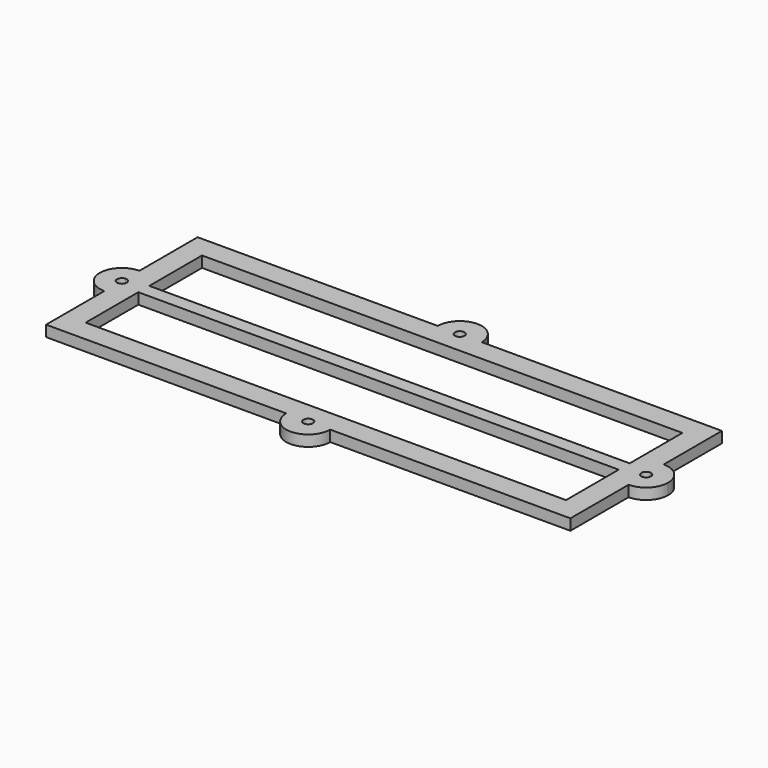
from build123d import *

# Parameters (mm, degrees)
F1_DEPTH = 4


with BuildPart() as f1:
    # F0 (on Top) → F1 (new body)
    with BuildSketch(Plane.XY):
        with BuildLine():
            Line((-30.794654727, 19.8597841859), (-30.794654727, 43.8597841859))
            Line((-30.794654727, 43.8597841859), (56.705345273, 43.8597841859))
            ThreePointArc((56.705345273, 43.8597841859), (51.0484910235, 46.2029299364), (48.705345273, 51.8597841859))
            Line((48.705345273, 51.8597841859), (-38.794654727, 51.8597841859))
            Line((-38.794654727, 51.8597841859), (-38.794654727, 25.3597841859))
            ThreePointArc((-38.794654727, 25.3597841859), (-33.1378004775, 23.0166384354), (-30.794654727, 17.3597841859))
            Line((-30.794654727, 17.3597841859), (-30.794654727, 19.8597841859))
        make_face()
        with BuildLine():
            ThreePointArc((64.705345273, 51.8597841859), (62.3621995225, 46.2029299364), (56.705345273, 43.8597841859))
            Line((56.705345273, 43.8597841859), (144.205345273, 43.8597841859))
            Line((144.205345273, 43.8597841859), (144.205345273, 19.8597841859))
            Line((144.205345273, 19.8597841859), (144.205345273, 17.3597841859))
            ThreePointArc((144.205345273, 17.3597841859), (146.5484910235, 23.0166384354), (152.205345273, 25.3597841859))
            Line((152.205345273, 25.3597841859), (152.205345273, 51.8597841859))
            Line((152.205345273, 51.8597841859), (64.705345273, 51.8597841859))
        make_face()
        with BuildLine():
            ThreePointArc((48.705345273, 51.8597841859), (51.0484910235, 46.2029299364), (56.705345273, 43.8597841859))
            ThreePointArc((56.705345273, 43.8597841859), (62.3621995225, 46.2029299364), (64.705345273, 51.8597841859))
            Line((64.705345273, 51.8597841859), (58.455345273, 51.8597841859))
            ThreePointArc((58.455345273, 51.8597841859), (56.705345273, 50.1097841859), (54.955345273, 51.8597841859))
            Line((54.955345273, 51.8597841859), (48.705345273, 51.8597841859))
        make_face()
        with BuildLine():
            ThreePointArc((64.705345273, 51.8597841859), (56.705345273, 59.8597841859), (48.705345273, 51.8597841859))
            Line((48.705345273, 51.8597841859), (54.955345273, 51.8597841859))
            ThreePointArc((54.955345273, 51.8597841859), (56.705345273, 53.6097841859), (58.455345273, 51.8597841859))
            Line((58.455345273, 51.8597841859), (64.705345273, 51.8597841859))
        make_face()
        with BuildLine():
            ThreePointArc((-38.794654727, 9.3597841859), (-33.1378004775, 11.7029299364), (-30.794654727, 17.3597841859))
            ThreePointArc((-30.794654727, 17.3597841859), (-33.1378004775, 23.0166384354), (-38.794654727, 25.3597841859))
            Line((-38.794654727, 25.3597841859), (-38.794654727, 19.1097841859))
            ThreePointArc((-38.794654727, 19.1097841859), (-37.5572178599, 18.597221053), (-37.044654727, 17.3597841859))
            ThreePointArc((-37.044654727, 17.3597841859), (-37.5572178599, 16.1223473188), (-38.794654727, 15.6097841859))
            Line((-38.794654727, 15.6097841859), (-38.794654727, 9.3597841859))
        make_face()
        with BuildLine():
            Line((-30.794654727, 14.8597841859), (-30.794654727, 17.3597841859))
            ThreePointArc((-30.794654727, 17.3597841859), (-33.1378004775, 11.7029299364), (-38.794654727, 9.3597841859))
            Line((-38.794654727, 9.3597841859), (-38.794654727, -17.1402158141))
            Line((-38.794654727, -17.1402158141), (48.705345273, -17.1402158141))
            ThreePointArc((48.705345273, -17.1402158141), (51.0484910372, -11.483361551), (56.7053453116, -9.1402158141))
            Line((56.7053453116, -9.1402158141), (-30.794654727, -9.1402158141))
            Line((-30.794654727, -9.1402158141), (-30.794654727, 14.8597841859))
        make_face()
        with BuildLine():
            Line((-38.794654727, 19.1097841859), (-38.794654727, 25.3597841859))
            ThreePointArc((-38.794654727, 25.3597841859), (-46.794654727, 17.3597841859), (-38.794654727, 9.3597841859))
            Line((-38.794654727, 9.3597841859), (-38.794654727, 15.6097841859))
            ThreePointArc((-38.794654727, 15.6097841859), (-40.544654727, 17.3597841859), (-38.794654727, 19.1097841859))
        make_face()
        with BuildLine():
            ThreePointArc((152.205345273, 9.3597841859), (146.5484910235, 11.7029299364), (144.205345273, 17.3597841859))
            Line((144.205345273, 17.3597841859), (144.205345273, 14.8597841859))
            Line((144.205345273, 14.8597841859), (144.205345273, -9.1402158141))
            Line((144.205345273, -9.1402158141), (56.7053453116, -9.1402158141))
            ThreePointArc((56.7053453116, -9.1402158141), (62.3621995362, -11.4833615783), (64.705345273, -17.1402158141))
            Line((64.705345273, -17.1402158141), (152.205345273, -17.1402158141))
            Line((152.205345273, -17.1402158141), (152.205345273, 9.3597841859))
        make_face()
        with BuildLine():
            ThreePointArc((152.205345273, 25.3597841859), (146.5484910235, 23.0166384354), (144.205345273, 17.3597841859))
            ThreePointArc((144.205345273, 17.3597841859), (146.5484910235, 11.7029299364), (152.205345273, 9.3597841859))
            Line((152.205345273, 9.3597841859), (152.205345273, 15.6097841859))
            ThreePointArc((152.205345273, 15.6097841859), (150.455345273, 17.3597841859), (152.205345273, 19.1097841859))
            Line((152.205345273, 19.1097841859), (152.205345273, 25.3597841859))
        make_face()
        with BuildLine():
            ThreePointArc((160.205345273, 17.3597841859), (157.8621995225, 23.0166384354), (152.205345273, 25.3597841859))
            Line((152.205345273, 25.3597841859), (152.205345273, 19.1097841859))
            ThreePointArc((152.205345273, 19.1097841859), (153.4427821401, 18.597221053), (153.955345273, 17.3597841859))
            ThreePointArc((153.955345273, 17.3597841859), (153.4427821401, 16.1223473188), (152.205345273, 15.6097841859))
            Line((152.205345273, 15.6097841859), (152.205345273, 9.3597841859))
            ThreePointArc((152.205345273, 9.3597841859), (157.8621995225, 11.7029299364), (160.205345273, 17.3597841859))
        make_face()
        with BuildLine():
            ThreePointArc((64.705345273, -17.1402158141), (62.3621995362, -11.4833615783), (56.7053453116, -9.1402158141))
            ThreePointArc((56.7053453116, -9.1402158141), (51.0484910372, -11.483361551), (48.705345273, -17.1402158141))
            Line((48.705345273, -17.1402158141), (54.955345273, -17.1402158141))
            ThreePointArc((54.955345273, -17.1402158141), (56.705345273, -15.3902158141), (58.455345273, -17.1402158141))
            Line((58.455345273, -17.1402158141), (64.705345273, -17.1402158141))
        make_face()
        with BuildLine():
            Line((54.955345273, -17.1402158141), (48.705345273, -17.1402158141))
            ThreePointArc((48.705345273, -17.1402158141), (56.705345273, -25.1402158141), (64.705345273, -17.1402158141))
            Line((64.705345273, -17.1402158141), (58.455345273, -17.1402158141))
            ThreePointArc((58.455345273, -17.1402158141), (56.705345273, -18.8902158141), (54.955345273, -17.1402158141))
        make_face()
        Polygon((144.205345273, 19.8597841859), (-30.794654727, 19.8597841859), (-30.794654727, 17.3597841859), (-30.794654727, 14.8597841859), (144.205345273, 14.8597841859), (144.205345273, 17.3597841859), align=None)
    extrude(amount=-F1_DEPTH)


solid = f1.part
